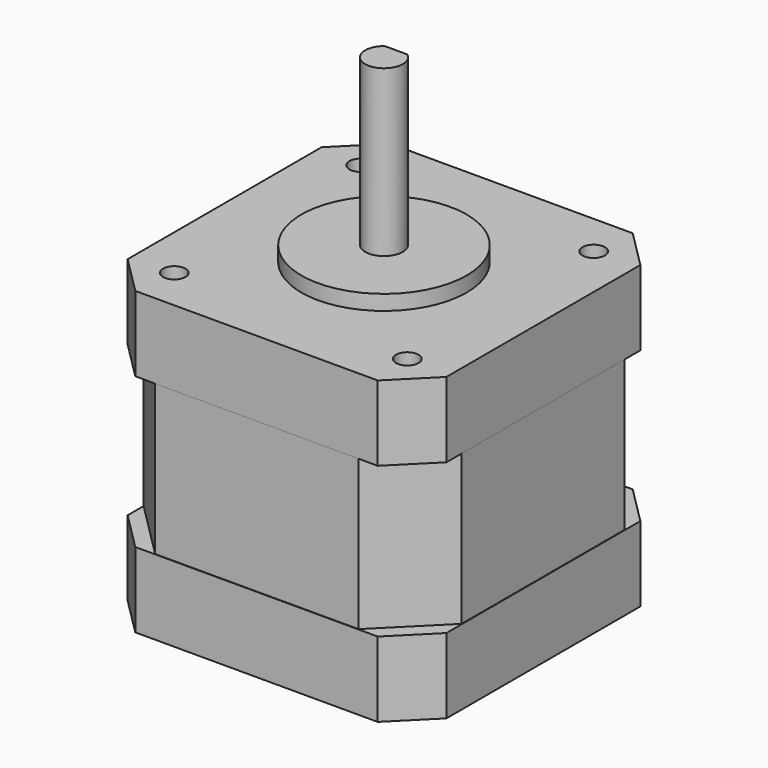
from build123d import *

# Parameters (mm, degrees)
F0_W      = 42.3
F0_H      = 42.3
F1_DEPTH  = 10
F2_SIZE   = 7.62
F3_W      = 42.418
F3_H      = 42.418
F4_DEPTH  = 10
F5_SIZE   = 5.08
F7_DEPTH  = 10
F8_R      = 10.9982
F9_DEPTH  = 2
F10_R     = 2.5
F11_DEPTH = 22
F13_DEPTH = 15
F14_R     = 1.5
F15_DEPTH = 6.35


with BuildPart() as f1:
    # F0 (on Top) → F1 (new body, symmetric)
    with BuildSketch(Plane.XY):
        Rectangle(F0_W, F0_H)
    extrude(amount=F1_DEPTH, both=True)

    # F2
    f2_edges = [f1.edges().sort_by_distance(p)[0] for p in [
        (21.15, 21.15, 0),
        (-21.15, 21.15, 0),
        (-21.15, -21.15, 0),
        (21.15, -21.15, 0),
    ]]
    chamfer(f2_edges, length=F2_SIZE)

    # F3 (on face) → F4 (join)
    with BuildSketch(Plane.XY.offset(10)):
        Rectangle(F3_W, F3_H)
        Polygon((-13.53, 21.15), (13.53, 21.15), (21.15, 13.53), (21.15, -13.53), (13.53, -21.15), (-13.53, -21.15), (-21.15, -13.53), (-21.15, 13.53), align=None, mode=Mode.SUBTRACT)
        Rectangle(F3_W, F3_H)
        Polygon((-13.53, 21.15), (13.53, 21.15), (21.15, 13.53), (21.15, -13.53), (13.53, -21.15), (-13.53, -21.15), (-21.15, -13.53), (-21.15, 13.53), align=None, mode=Mode.SUBTRACT)
        Rectangle(F3_W, F3_H)
        Polygon((-13.53, 21.15), (13.53, 21.15), (21.15, 13.53), (21.15, -13.53), (13.53, -21.15), (-13.53, -21.15), (-21.15, -13.53), (-21.15, 13.53), align=None, mode=Mode.SUBTRACT)
        Rectangle(F3_W, F3_H)
        Polygon((-13.53, 21.15), (13.53, 21.15), (21.15, 13.53), (21.15, -13.53), (13.53, -21.15), (-13.53, -21.15), (-21.15, -13.53), (-21.15, 13.53), align=None, mode=Mode.SUBTRACT)
        Polygon((21.15, 13.53), (13.53, 21.15), (-13.53, 21.15), (-21.15, 13.53), (-21.15, -13.53), (-13.53, -21.15), (13.53, -21.15), (21.15, -13.53), align=None)
    extrude(amount=F4_DEPTH)

    # F5
    f5_edges = [f1.edges().sort_by_distance(p)[0] for p in [
        (21.209, 21.209, 15),
        (-21.209, 21.209, 15),
        (-21.209, -21.209, 15),
        (21.209, -21.209, 15),
    ]]
    chamfer(f5_edges, length=F5_SIZE)

    # F6 (on face) → F7 (join)
    with BuildSketch(Plane(origin=(0, 0, -10), x_dir=(1, 0, 0), z_dir=(0, 0, -1))):
        Polygon((16.129, 21.209), (-16.129, 21.209), (-21.209, 16.129), (-21.209, -16.129), (-16.129, -21.209), (16.129, -21.209), (21.209, -16.129), (21.209, 16.129), align=None)
        Polygon((13.53, -21.15), (-13.53, -21.15), (-21.15, -13.53), (-21.15, 13.53), (-13.53, 21.15), (13.53, 21.15), (21.15, 13.53), (21.15, -13.53), align=None, mode=Mode.SUBTRACT)
        Polygon((16.129, 21.209), (-16.129, 21.209), (-21.209, 16.129), (-21.209, -16.129), (-16.129, -21.209), (16.129, -21.209), (21.209, -16.129), (21.209, 16.129), align=None)
        Polygon((13.53, -21.15), (-13.53, -21.15), (-21.15, -13.53), (-21.15, 13.53), (-13.53, 21.15), (13.53, 21.15), (21.15, 13.53), (21.15, -13.53), align=None, mode=Mode.SUBTRACT)
        Polygon((16.129, 21.209), (-16.129, 21.209), (-21.209, 16.129), (-21.209, -16.129), (-16.129, -21.209), (16.129, -21.209), (21.209, -16.129), (21.209, 16.129), align=None)
        Polygon((13.53, -21.15), (-13.53, -21.15), (-21.15, -13.53), (-21.15, 13.53), (-13.53, 21.15), (13.53, 21.15), (21.15, 13.53), (21.15, -13.53), align=None, mode=Mode.SUBTRACT)
        Polygon((16.129, 21.209), (-16.129, 21.209), (-21.209, 16.129), (-21.209, -16.129), (-16.129, -21.209), (16.129, -21.209), (21.209, -16.129), (21.209, 16.129), align=None)
        Polygon((13.53, -21.15), (-13.53, -21.15), (-21.15, -13.53), (-21.15, 13.53), (-13.53, 21.15), (13.53, 21.15), (21.15, 13.53), (21.15, -13.53), align=None, mode=Mode.SUBTRACT)
        Polygon((-21.15, -13.53), (-13.53, -21.15), (13.53, -21.15), (21.15, -13.53), (21.15, 13.53), (13.53, 21.15), (-13.53, 21.15), (-21.15, 13.53), align=None)
    extrude(amount=F7_DEPTH)

    # F8 (on face) → F9 (join)
    with BuildSketch(Plane.XY.offset(20)):
        Circle(F8_R)
    extrude(amount=F9_DEPTH)

    # F10 (on face) → F11 (join)
    with BuildSketch(Plane.XY.offset(22)):
        Circle(F10_R)
    extrude(amount=F11_DEPTH)

    # F12 (on face) → F13 (cut)
    with BuildSketch(Plane.XY.offset(44)):
        with BuildLine():
            Line((2.6203631624, 2.9334036984), (-2.6333660554, 2.9334036984))
            Line((-2.6333660554, 2.9334036984), (-2.6333660554, 2))
            Line((-2.6333660554, 2), (-1.5, 2))
            ThreePointArc((-1.5, 2), (0, 2.5), (1.5, 2))
            Line((1.5, 2), (2.6203631624, 2))
            Line((2.6203631624, 2), (2.6203631624, 2.9334036984))
        make_face()
        with BuildLine():
            ThreePointArc((1.5, 2), (0, 2.5), (-1.5, 2))
            Line((-1.5, 2), (1.5, 2))
        make_face()
    extrude(amount=-F13_DEPTH, mode=Mode.SUBTRACT)

    # F14 (on face) → F15 (cut)
    with BuildSketch(Plane.XY.offset(20)):
        with Locations((-15.5, 15.5)):
            Circle(F14_R)
        with Locations((15.5, 15.5)):
            Circle(F14_R)
        with Locations((15.5, -15.5)):
            Circle(F14_R)
        with Locations((-15.5, -15.5)):
            Circle(F14_R)
    extrude(amount=-F15_DEPTH, mode=Mode.SUBTRACT)


solid = f1.part
